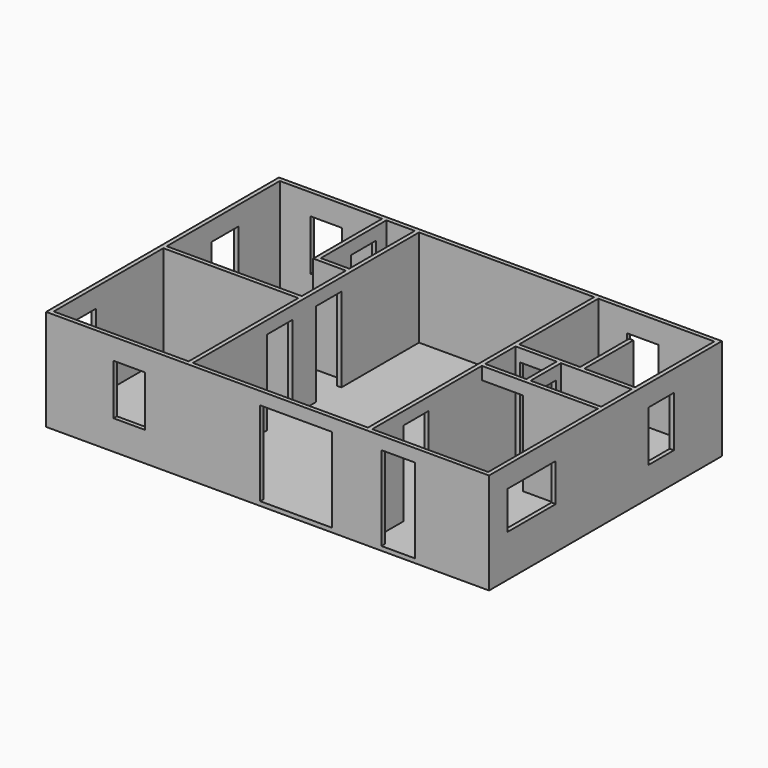
from build123d import *

# Parameters (mm, degrees)
F32_W     = 10668
F32_H     = 7010.4
F0_DEPTH  = 2438.4
F33_T     = -101.6
F1_W      = 990.6
F1_H      = 914.4
F2_DEPTH  = 2336.8
F34_W     = 812.8
F34_H     = 2032
F35_DEPTH = 101.6
F3_W      = 812.8
F3_H      = 1219.2
F4_DEPTH  = 101.6
F5_W      = 762
F5_H      = 1219.2
F36_DEPTH = 101.6
F6_W      = 762
F6_H      = 2032
F7_DEPTH  = 101.6
F8_W      = 1447.8
F8_H      = 914.4
F9_DEPTH  = 101.6
F10_W     = 762
F10_H     = 1219.2
F11_DEPTH = 101.6
F12_W     = 762
F12_H     = 1219.2
F13_DEPTH = 101.6
F14_W     = 762
F14_H     = 1219.2
F15_DEPTH = 101.6
F16_W     = 1727.2
F16_H     = 2032
F17_DEPTH = 101.6
F18_W     = 762
F18_H     = 2032
F19_DEPTH = 101.6
F20_W     = 812.8
F20_H     = 1219.2
F21_DEPTH = 101.6
F22_W     = 762
F22_H     = 2032
F23_DEPTH = 101.6
F24_W     = 762
F24_H     = 2032
F25_DEPTH = 101.6
F26_W     = 609.6
F26_H     = 2032
F27_DEPTH = 101.6
F28_W     = 990.6
F28_H     = 2032
F29_DEPTH = 101.6
F30_W     = 762
F30_H     = 2032
F31_DEPTH = 101.6


with BuildPart() as f0:
    # F32 (on Top) → F0 (new body)
    with BuildSketch(Plane.XY):
        with Locations((5334, 3505.2)):
            Rectangle(F32_W, F32_H)
    extrude(amount=F0_DEPTH)

    # F33
    f33_openings = [f0.faces().sort_by_distance(p)[0] for p in [
        (5334, 3505.2, 2438.4),
    ]]
    offset(amount=F33_T, openings=f33_openings)

    # F1 (on face) → F2 (join, through all)
    with BuildSketch(Plane.XY.offset(101.6)):
        Polygon((3352.8, 101.6), (3454.4, 101.6), (3454.4, 6908.8), (3352.8, 6908.8), (3352.8, 4936.2171379089), (3352.8, 4834.6171379089), (3352.8, 3505.2), (2667, 3505.2), (2565.4, 3505.2), (101.6, 3505.2), (101.6, 3403.6), (3352.8, 3403.6), align=None)
        Polygon((7772.4, 3403.6), (10566.4, 3403.6), (10566.4, 3505.2), (8864.6, 3505.2), (8864.6, 4419.6), (10566.4, 4419.6), (10566.4, 4521.2), (9347.2, 4521.2), (9347.2, 5994.4), (9245.6, 5994.4), (9245.6, 4521.2), (7772.4, 4521.2), (7772.4, 6908.8), (7670.8, 6908.8), (7670.8, 101.6), (7772.4, 101.6), align=None)
        with Locations((8267.7, 3962.4)):
            Rectangle(F1_W, F1_H, mode=Mode.SUBTRACT)
        Polygon((3352.8, 4834.6171379089), (3352.8, 4936.2171379089), (2667, 4936.2171379089), (2667, 6908.8), (2565.4, 6908.8), (2565.4, 4834.6171379089), align=None)
    extrude(amount=F2_DEPTH)

    # F34 (on face) → F35 (cut, through all)
    with BuildSketch(Plane(origin=(0, 101.6, 0), x_dir=(-1, 0, 0), z_dir=(0, 1, 0))):
        with Locations((-8483.6, 1117.6)):
            Rectangle(F34_W, F34_H)
    extrude(amount=-F35_DEPTH, mode=Mode.SUBTRACT)

    # F3 (on face) → F4 (cut, through all)
    with BuildSketch(Plane.YZ.offset(101.6)):
        with Locations((5257.8, 1371.6)):
            Rectangle(F3_W, F3_H)
    extrude(amount=-F4_DEPTH, mode=Mode.SUBTRACT)

    # F5 (on face) → F36 (cut, through all)
    with BuildSketch(Plane.XZ.offset(-6908.8)):
        with Locations((1219.2, 1320.8)):
            Rectangle(F5_W, F5_H)
    extrude(amount=-F36_DEPTH, mode=Mode.SUBTRACT)

    # F6 (on face) → F7 (cut, through all)
    with BuildSketch(Plane.YZ.offset(7772.4)):
        with Locations((1422.4, 1117.6)):
            Rectangle(F6_W, F6_H)
    extrude(amount=-F7_DEPTH, mode=Mode.SUBTRACT)

    # F8 (on face) → F9 (cut, through all)
    with BuildSketch(Plane(origin=(10566.4, 0, 0), x_dir=(0, -1, 0), z_dir=(-1, 0, 0))):
        with Locations((-1282.7, 1473.2)):
            Rectangle(F8_W, F8_H)
    extrude(amount=-F9_DEPTH, mode=Mode.SUBTRACT)

    # F10 (on face) → F11 (cut, through all)
    with BuildSketch(Plane.XZ.offset(-6908.8)):
        with Locations((8839.2, 1320.8)):
            Rectangle(F10_W, F10_H)
    extrude(amount=-F11_DEPTH, mode=Mode.SUBTRACT)

    # F12 (on face) → F13 (cut, through all)
    with BuildSketch(Plane(origin=(10566.4, 0, 0), x_dir=(0, -1, 0), z_dir=(-1, 0, 0))):
        with Locations((-5181.6, 1320.8)):
            Rectangle(F12_W, F12_H)
    extrude(amount=-F13_DEPTH, mode=Mode.SUBTRACT)

    # F14 (on face) → F15 (cut, through all)
    with BuildSketch(Plane(origin=(0, 101.6, 0), x_dir=(-1, 0, 0), z_dir=(0, 1, 0))):
        with Locations((-2006.6, 1320.8)):
            Rectangle(F14_W, F14_H)
    extrude(amount=-F15_DEPTH, mode=Mode.SUBTRACT)

    # F16 (on face) → F17 (cut, through all)
    with BuildSketch(Plane(origin=(0, 101.6, 0), x_dir=(-1, 0, 0), z_dir=(0, 1, 0))):
        with Locations((-6019.8, 1117.6)):
            Rectangle(F16_W, F16_H)
    extrude(amount=-F17_DEPTH, mode=Mode.SUBTRACT)

    # F18 (on face) → F19 (cut, through all)
    with BuildSketch(Plane(origin=(2565.4, 0, 0), x_dir=(0, -1, 0), z_dir=(-1, 0, 0))):
        with Locations((-6223, 1117.6)):
            Rectangle(F18_W, F18_H)
    extrude(amount=-F19_DEPTH, mode=Mode.SUBTRACT)

    # F20 (on face) → F21 (cut, through all)
    with BuildSketch(Plane.YZ.offset(101.6)):
        with Locations((965.2, 1371.7016)):
            Rectangle(F20_W, F20_H)
    extrude(amount=-F21_DEPTH, mode=Mode.SUBTRACT)

    # F22 (on face) → F23 (cut, through all)
    with BuildSketch(Plane.YZ.offset(3454.4)):
        with Locations((2717.8, 1117.6)):
            Rectangle(F22_W, F22_H)
    extrude(amount=-F23_DEPTH, mode=Mode.SUBTRACT)

    # F24 (on face) → F25 (cut, through all)
    with BuildSketch(Plane.YZ.offset(3454.4)):
        with Locations((4191, 1117.6)):
            Rectangle(F24_W, F24_H)
    extrude(amount=-F25_DEPTH, mode=Mode.SUBTRACT)

    # F26 (on face) → F27 (cut, through all)
    with BuildSketch(Plane(origin=(8763, 0, 0), x_dir=(0, -1, 0), z_dir=(-1, 0, 0))):
        with Locations((-3962.4, 1117.6)):
            Rectangle(F26_W, F26_H)
    extrude(amount=-F27_DEPTH, mode=Mode.SUBTRACT)

    # F28 (on face) → F29 (cut, through all)
    with BuildSketch(Plane.XZ.offset(-3403.6)):
        with Locations((8267.7, 1117.6)):
            Rectangle(F28_W, F28_H)
    extrude(amount=-F29_DEPTH, mode=Mode.SUBTRACT)

    # F30 (on face) → F31 (cut, through all)
    with BuildSketch(Plane.XZ.offset(-4419.6)):
        with Locations((8255, 1117.6)):
            Rectangle(F30_W, F30_H)
    extrude(amount=-F31_DEPTH, mode=Mode.SUBTRACT)


solid = f0.part
